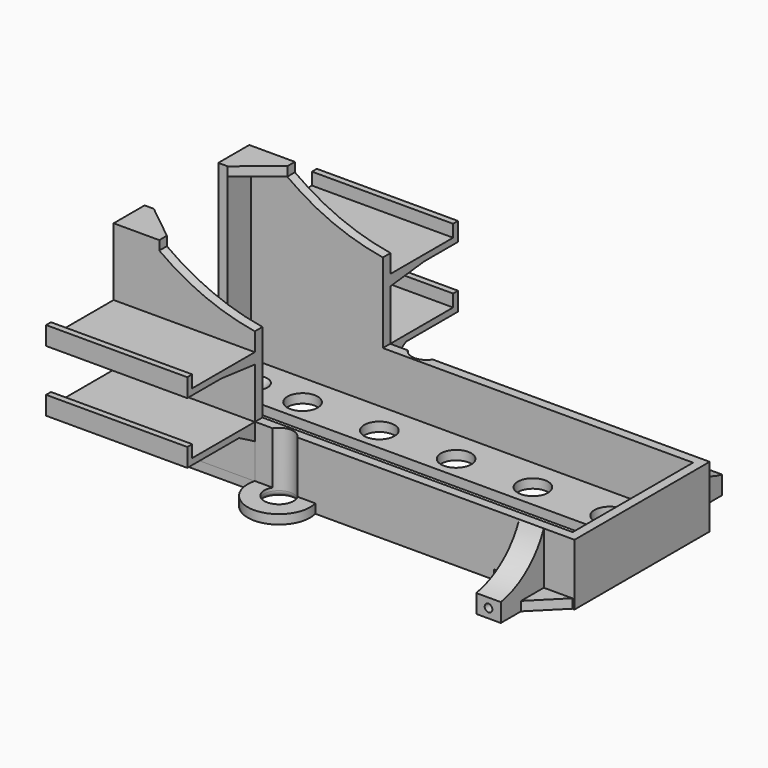
from build123d import *

# Parameters (mm, degrees)
F0_W            = 150
F0_H            = 55
F0_W_2          = 144
F0_H_2          = 49
F1_DEPTH        = 20
F3_R            = 4.75
F4_DEPTH        = 25
F5_W            = 8
F5_H            = 19.383624
F6_DEPTH        = 20
F8_DEPTH        = 25
F2_R            = 4.75
F9_DEPTH        = 3
F10_R           = 2
F12_DEPTH       = 56
F13_W           = 30
F13_H           = 56
F14_DEPTH       = 25
F16_DEPTH       = 3
F17_R           = 6
F17_R_2         = 4.92693
F18_DEPTH       = 25
F19_R           = 1.25
F20_DEPTH       = 10
F21_R           = 1.75
F22_DEPTH       = 10
F24_D           = 3
F24_CSINK_D     = 8
F24_CSINK_ANGLE = 90
F26_DEPTH       = 45.981508
F28_DEPTH       = 82.704807
F30_DEPTH       = 3.001
F32_DEPTH       = 3


with BuildPart() as f1:
    # F0 (on Top) → F1 (new body)
    with BuildSketch(Plane.XY):
        with Locations((75, 0)):
            Rectangle(F0_W, F0_H)
        with Locations((75, 0)):
            Rectangle(F0_W_2, F0_H_2, mode=Mode.SUBTRACT)
    extrude(amount=F1_DEPTH)

    # F3 (on Top) → F4 (cut)
    with BuildSketch(Plane.XY):
        with Locations((55.75, 30)):
            Circle(F3_R)
        with Locations((55.75, -30)):
            Circle(F3_R)
    extrude(amount=F4_DEPTH, mode=Mode.SUBTRACT)

    # F5 (on Top) → F6 (join)
    with BuildSketch(Plane.XY):
        with Locations((136, 35.308188)):
            Rectangle(F5_W, F5_H)
        with Locations((136, -35.308188)):
            Rectangle(F5_W, F5_H)
    extrude(amount=F6_DEPTH)

    # F7 (on face) → F8 (cut)
    with BuildSketch(Plane.YZ.offset(140)):
        with BuildLine():
            Line((45, 20), (27.5, 20))
            ThreePointArc((27.5, 20), (34.452449, 10.753061), (45, 6))
            Line((45, 6), (45, 20))
        make_face()
        with BuildLine():
            Line((-27.5, 20), (-45, 20))
            Line((-45, 20), (-45, 6))
            ThreePointArc((-45, 6), (-34.452449, 10.753061), (-27.5, 20))
        make_face()
    extrude(amount=-F8_DEPTH, mode=Mode.SUBTRACT)

    # F2 (on Top) → F9 (join)
    with BuildSketch(Plane.XY):
        with BuildLine():
            Line((45.902228, 27.5), (0, 27.5))
            Line((0, 27.5), (0, -27.5))
            Line((0, -27.5), (45.902228, -27.5))
            ThreePointArc((45.902228, -27.5), (55.75, -40.160149), (65.597772, -27.5))
            Line((65.597772, -27.5), (150, -27.5))
            Line((150, -27.5), (150, 27.5))
            Line((150, 27.5), (65.597772, 27.5))
            ThreePointArc((65.597772, 27.5), (55.75, 40.160149), (45.902228, 27.5))
        make_face()
        with Locations((55.75, -30)):
            Circle(F2_R, mode=Mode.SUBTRACT)
        with Locations((55.75, 30)):
            Circle(F2_R, mode=Mode.SUBTRACT)
    extrude(amount=F9_DEPTH)

    # F10
    f10_edges = [f1.edges().sort_by_distance(p)[0] for p in [
        (51, 30, 0),
        (51, -30, 0),
    ]]
    fillet(f10_edges, radius=F10_R)

    # F11 (on face) → F12 (join)
    with BuildSketch(Plane.XY.offset(3)):
        Polygon((45.981508, 27.601903), (0, 27.601903), (0, 0), (0, -27.601903), (45.981508, -27.601903), (45.981508, -24.5), (3, -24.5), (3, 0), (3, 24.5), (45.981508, 24.5), align=None)
    extrude(amount=F12_DEPTH)

    # F13 (on face) → F14 (cut)
    with BuildSketch(Plane(origin=(0, 0, 0), x_dir=(0, -1, 0), z_dir=(-1, 0, 0))):
        with Locations((0, 31)):
            Rectangle(F13_W, F13_H)
    extrude(amount=-F14_DEPTH, mode=Mode.SUBTRACT)

    # F15 (on face) → F16 (join)
    with BuildSketch(Plane.XY.offset(59)):
        Polygon((0, 15), (3, 15), (14.855375, 24.5), (14.855375, 27.601903), (0, 27.601903), align=None)
        Polygon((3, -15), (0, -15), (0, -27.601903), (14.855375, -27.601903), (14.855375, -24.5), align=None)
    extrude(amount=F16_DEPTH)

    # F17 (on face) → F18 (cut)
    with BuildSketch(Plane.XY.offset(3)):
        with Locations((15.74922, 0)):
            Circle(F17_R)
        with Locations((40.74922, 0)):
            Circle(F17_R)
        with Locations((65.74922, 0)):
            Circle(F17_R)
        with Locations((90.74922, 0)):
            Circle(F17_R)
        with Locations((115.74922, 0)):
            Circle(F17_R)
        with Locations((28.24922, 14)):
            Circle(F17_R_2)
        with Locations((53.24922, 14)):
            Circle(F17_R_2)
        with Locations((78.24922, 14)):
            Circle(F17_R_2)
        with Locations((103.24922, 14)):
            Circle(F17_R_2)
        with Locations((128.24922, 14)):
            Circle(F17_R_2)
        with Locations((28.24922, -14)):
            Circle(F17_R_2)
        with Locations((53.24922, -14)):
            Circle(F17_R_2)
        with Locations((78.24922, -14)):
            Circle(F17_R_2)
        with Locations((103.24922, -14)):
            Circle(F17_R_2)
        with Locations((128.24922, -14)):
            Circle(F17_R_2)
    extrude(amount=-F18_DEPTH, mode=Mode.SUBTRACT)

    # F19 (on face) → F20 (cut)
    with BuildSketch(Plane.XZ.offset(45)):
        with Locations((136, 3)):
            Circle(F19_R)
    extrude(amount=-F20_DEPTH, mode=Mode.SUBTRACT)

    # F21 (on face) → F22 (cut)
    with BuildSketch(Plane(origin=(0, 45, 0), x_dir=(-1, 0, 0), z_dir=(0, 1, 0))):
        with Locations((-136, 3)):
            Circle(F21_R)
    extrude(amount=-F22_DEPTH, mode=Mode.SUBTRACT)

    # F24 (through all)
    with Locations(Plane.XY.offset(3)):
        with Locations((12.257308, 14.712964), (12.257308, -14.712964)):
            CounterSinkHole(F24_D / 2, F24_CSINK_D / 2, counter_sink_angle=F24_CSINK_ANGLE)

    # F25 (on face) → F26 (join, through all)
    with BuildSketch(Plane(origin=(0, 0, 0), x_dir=(0, -1, 0), z_dir=(-1, 0, 0))):
        Polygon((-55.101903, 44), (-55.101903, 38), (-41.280588, 38), (-27.601903, 36.453437), (-27.601903, 40), (-53.101903, 40), (-53.101903, 44), align=None)
        Polygon((-55.101903, 24), (-55.101903, 18), (-34.022562, 18), (-27.601903, 14.44634), (-27.601903, 20), (-53.101903, 20), (-53.101903, 24), align=None)
        Polygon((55.101903, 24), (53.101903, 24), (53.101903, 20), (27.601903, 20), (27.601903, 14.44634), (34.022562, 18), (55.101903, 18), align=None)
        Polygon((41.280588, 38), (55.101903, 38), (55.101903, 44), (53.101903, 44), (53.101903, 40), (27.601903, 40), (27.601903, 36.453437), align=None)
    extrude(amount=-F26_DEPTH)

    # F27 (on face) → F28 (cut, through all)
    with BuildSketch(Plane.XZ.offset(27.601903)):
        with BuildLine():
            Line((45.981508, 59), (14.855375, 59))
            ThreePointArc((14.855375, 59), (29.645011, 50.637717), (45.981508, 45.970812))
            Line((45.981508, 45.970812), (45.981508, 59))
        make_face()
    extrude(amount=-F28_DEPTH, mode=Mode.SUBTRACT)

    # F29 (on face) → F30 (cut, through all)
    with BuildSketch(Plane.XY.offset(3)):
        with BuildLine():
            Line((15.681136, 6.499643), (15.817265, 6.499644))
            ThreePointArc((15.817265, 6.499644), (15.7492, 6.5), (15.681136, 6.499643))
        make_face()
        with BuildLine():
            Line((134.703036, 6.5), (15.817265, 6.499644))
            Line((15.817265, 6.499644), (15.681136, 6.499643))
            ThreePointArc((15.681136, 6.499643), (9.249862, -0.091384), (15.863902, -6.498988))
            Line((15.863902, -6.498988), (134.703, -6.5))
            ThreePointArc((134.703, -6.5), (141.203055, -1.8e-05), (134.703036, 6.5))
        make_face()
    extrude(amount=-F30_DEPTH, mode=Mode.SUBTRACT)

    # F31 (on face) → F32 (join)
    with BuildSketch(Plane.XY):
        Polygon((139.584467, -37.202392), (149.647281, -27.13958), (123.585731, -27.196111), (132.348284, -37.202392), align=None)
        Polygon((149.647281, 27.13958), (139.584467, 37.202392), (132.348284, 37.202392), (123.585731, 27.196111), align=None)
    extrude(amount=F32_DEPTH)


solid = f1.part
